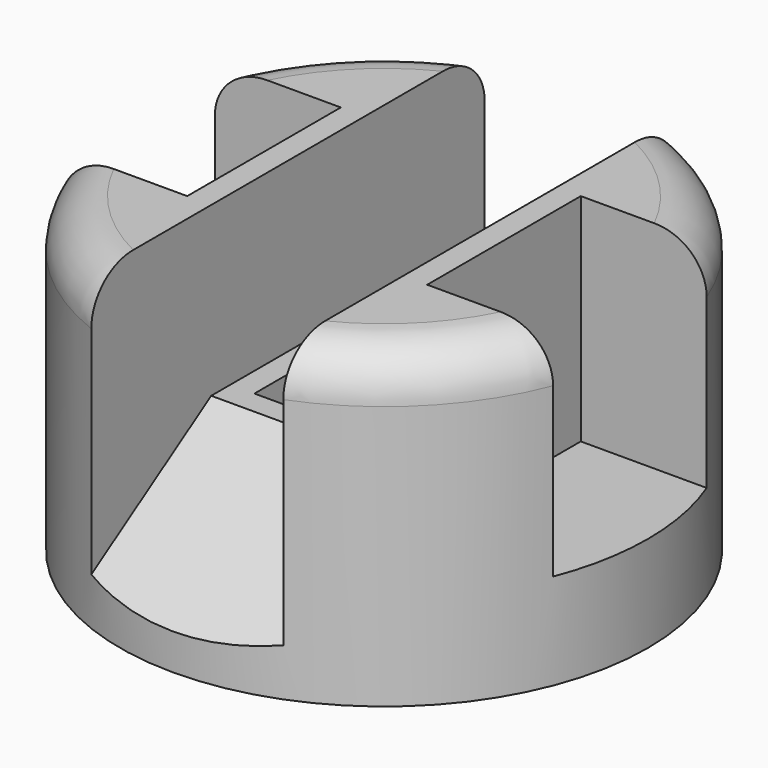
from build123d import *

# Parameters (mm, degrees)
F0_W     = 38.1
F0_H     = 57.15
F2_DEPTH = 25.4
F4_DEPTH = 25.4
F5_W     = 38.1
F5_H     = 38.1
F6_DEPTH = 82.5510001


with BuildPart() as f1:
    # F0 (on Front) → F1 (revolve)
    with BuildSketch(Plane.XZ):
        with BuildLine():
            Line((31.75, 25.4), (69.85, 25.4))
            Line((69.85, 25.4), (69.85, 69.85))
            ThreePointArc((69.85, 69.85), (66.1302561211, 78.8302561211), (57.15, 82.55))
            Line((57.15, 82.55), (31.75, 82.55))
            Line((31.75, 82.55), (31.75, 25.4))
        make_face()
        Polygon((0, 0), (38.1, 0), (69.85, 0), (69.85, 25.4), (31.75, 25.4), (31.75, 82.55), (0, 82.55), align=None)
    revolve(axis=Axis((0, 0, 41.275), (0, 0, -1)))

    # F0 (on Front) → F2 (cut, symmetric)
    with BuildSketch(Plane.XZ):
        with BuildLine():
            Line((31.75, 25.4), (69.85, 25.4))
            Line((69.85, 25.4), (69.85, 69.85))
            ThreePointArc((69.85, 69.85), (66.1302561211, 78.8302561211), (57.15, 82.55))
            Line((57.15, 82.55), (31.75, 82.55))
            Line((31.75, 82.55), (31.75, 25.4))
        make_face()
        with Locations((-50.8, 53.975)):
            Rectangle(F0_W, F0_H)
    extrude(amount=F2_DEPTH, both=True, mode=Mode.SUBTRACT)

    # F3 (on Right) → F4 (cut, symmetric)
    with BuildSketch(Plane.YZ):
        Polygon((69.85, 9.525), (69.85, 82.55), (-69.85, 82.55), (-69.85, 9.525), (-25.4, 38.1), (25.4, 38.1), align=None)
    extrude(amount=F4_DEPTH, both=True, mode=Mode.SUBTRACT)

    # F5 (on face) → F6 (cut, through all)
    with BuildSketch(Plane(origin=(0, 0, 0), x_dir=(1, 0, 0), z_dir=(0, 0, -1))):
        Rectangle(F5_W, F5_H)
    extrude(amount=-F6_DEPTH, mode=Mode.SUBTRACT)


solid = f1.part
